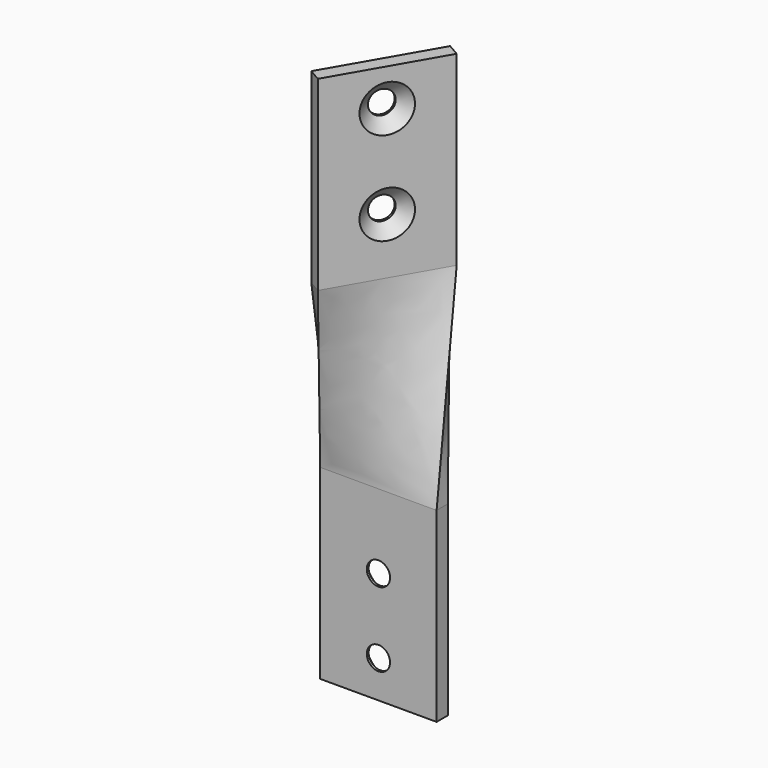
from build123d import *

# Parameters (mm, degrees)
F0_W            = 25
F0_H            = 40
F1_DEPTH        = 1.5
F4_W            = 25
F4_H            = 40
F5_DEPTH        = 1.5
F1_FACE_W       = 25
F1_FACE_H       = 3
F8_D            = 5
F8_CSINK_D      = 10
F8_CSINK_ANGLE  = 90
F10_D           = 5
F10_CSINK_D     = 10
F10_CSINK_ANGLE = 90


with BuildPart() as f1:
    # F0 (on Front) → F1 (new body, symmetric)
    with BuildSketch(Plane.XZ):
        with Locations((0, -20)):
            Rectangle(F0_W, F0_H)
    extrude(amount=F1_DEPTH, both=True)



with BuildPart() as f5:
    # F4 (on face) → F5 (new body, symmetric)
    with BuildSketch(Plane(origin=(0, 0, 0), x_dir=(-0.5, -0.866025, 0), z_dir=(-0.866025, 0.5, 0))):
        with Locations((0, 60)):
            Rectangle(F4_W, F4_H)
    extrude(amount=F5_DEPTH, both=True)


with BuildPart() as f1_1:
    add(f1.part)

    add(f5.part)  # F6 merges F5
    # F1_face (on face) → F6 section 0
    with BuildSketch(Plane.XY):
        Rectangle(F1_FACE_W, F1_FACE_H)
    # F5_face (on face) → F6 section 1
    with BuildSketch(Plane(origin=(0, 0, 40), x_dir=(1, 0, 0), z_dir=(0, 0, -1))):
        Polygon((7.549038, -10.075318), (-4.950962, 11.575318), (-7.549038, 10.075318), (4.950962, -11.575318), align=None)
    loft()

    # F8 (through all)
    with Locations(Plane(origin=(0, 1.5, 0), x_dir=(-1, 0, 0), z_dir=(0, 1, 0))):
        with Locations((0, -32), (0, -16)):
            CounterSinkHole(F8_D / 2, F8_CSINK_D / 2, counter_sink_angle=F8_CSINK_ANGLE)

    # F10 (through all)
    with Locations(Plane(origin=(1.299038, -0.75, 0), x_dir=(0.5, 0.866025, 0), z_dir=(0.866025, -0.5, 0))):
        with Locations((0, 72), (0, 52)):
            CounterSinkHole(F10_D / 2, F10_CSINK_D / 2, counter_sink_angle=F10_CSINK_ANGLE)


solid = f1_1.part
